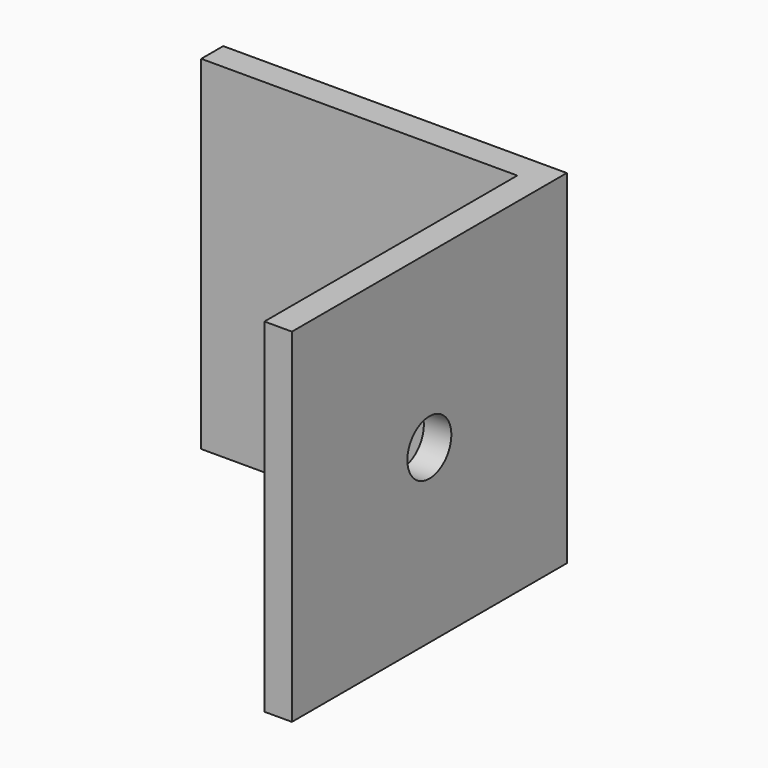
from build123d import *

# Parameters (mm, degrees)
F1_DEPTH = 25
F2_R     = 2
F3_DEPTH = 25.001
F4_R     = 2
F5_DEPTH = 25.001


with BuildPart() as f1:
    # F0 (on Top) → F1 (new body)
    with BuildSketch(Plane.XY):
        Polygon((23, 23), (23, 0), (25, 0), (25, 25), (0, 25), (0, 23), align=None)
    extrude(amount=F1_DEPTH)

    # F2 (on face) → F3 (cut, through all)
    with BuildSketch(Plane(origin=(0, 25, 0), x_dir=(-1, 0, 0), z_dir=(0, 1, 0))):
        with Locations((-12.5, 12.5)):
            Circle(F2_R)
    extrude(amount=-F3_DEPTH, mode=Mode.SUBTRACT)

    # F4 (on face) → F5 (cut, through all)
    with BuildSketch(Plane.YZ.offset(25)):
        with Locations((12.5, 12.5)):
            Circle(F4_R)
    extrude(amount=-F5_DEPTH, mode=Mode.SUBTRACT)


solid = f1.part
